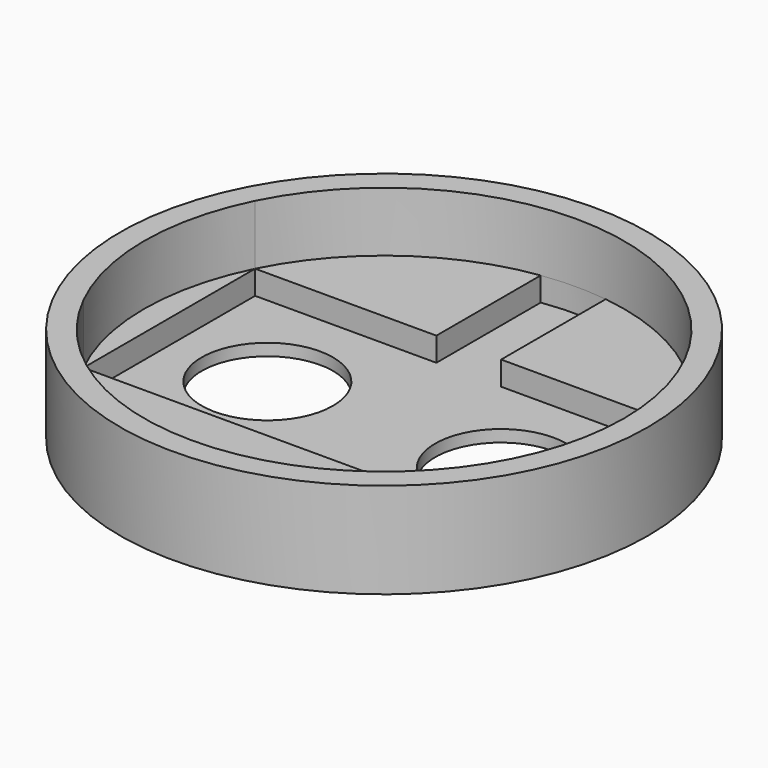
from build123d import *

# Parameters (mm, degrees)
F0_R     = 70.1167257922
F1_DEPTH = 25.4
F2_DEPTH = 9.525
F0_W     = 114.0985068913
F0_H     = 56.9764161581
F0_R_2   = 17.4384026712
F3_DEPTH = 3.175
F5_DEPTH = 6.35


with BuildPart() as f1:
    # F0 (on Top) → F1 (new body)
    with BuildSketch(Plane.XY):
        Circle(F0_R)
        with BuildLine():
            ThreePointArc((57.0492534457, 28.4882080791), (62.0646413805, 14.6347397849), (63.7667257922, 0))
            ThreePointArc((63.7667257922, 0), (62.0646413805, -14.6347397849), (57.0492534457, -28.4882080791))
            ThreePointArc((57.0492534457, -28.4882080791), (0, -63.7667257922), (-57.0492534457, -28.4882080791))
            ThreePointArc((-57.0492534457, -28.4882080791), (-63.7667257922, 0), (-57.0492534457, 28.4882080791))
            ThreePointArc((-57.0492534457, 28.4882080791), (0, 63.7667257922), (57.0492534457, 28.4882080791))
        make_face(mode=Mode.SUBTRACT)
    extrude(amount=F1_DEPTH)

    # F0 (on Top) → F2 (join)
    with BuildSketch(Plane.XY):
        with BuildLine():
            Line((-57.0492534457, 28.4882080791), (57.0492534457, 28.4882080791))
            ThreePointArc((57.0492534457, 28.4882080791), (0, 63.7667257922), (-57.0492534457, 28.4882080791))
        make_face()
        with BuildLine():
            Line((-57.0492534457, -28.4882080791), (-57.0492534457, 28.4882080791))
            ThreePointArc((-57.0492534457, 28.4882080791), (-63.7667257922, 0), (-57.0492534457, -28.4882080791))
        make_face()
        with BuildLine():
            ThreePointArc((-57.0492534457, -28.4882080791), (0, -63.7667257922), (57.0492534457, -28.4882080791))
            Line((57.0492534457, -28.4882080791), (-57.0492534457, -28.4882080791))
        make_face()
        with BuildLine():
            ThreePointArc((57.0492534457, -28.4882080791), (62.0646413805, -14.6347397849), (63.7667257922, 0))
            ThreePointArc((63.7667257922, 0), (62.0646413805, 14.6347397849), (57.0492534457, 28.4882080791))
            Line((57.0492534457, 28.4882080791), (57.0492534457, -28.4882080791))
        make_face()
    extrude(amount=F2_DEPTH)

    # F0 (on Top) → F3 (join)
    with BuildSketch(Plane.XY):
        Rectangle(F0_W, F0_H)
        with Locations((-31.0109015554, 0)):
            Circle(F0_R_2, mode=Mode.SUBTRACT)
        with Locations((31.0109015554, 0)):
            Circle(F0_R_2, mode=Mode.SUBTRACT)
    extrude(amount=F3_DEPTH)

    # F4 (on face) → F5 (cut)
    with BuildSketch(Plane.XY.offset(9.525)):
        with BuildLine():
            Line((-8.9004095644, 63.1425215512), (-8.9004095644, 28.4882080791))
            Line((-8.9004095644, 28.4882080791), (8.2985507539, 28.4882080791))
            Line((8.2985507539, 28.4882080791), (8.2985507539, 63.224436523))
            ThreePointArc((8.2985507539, 63.224436523), (-0.3037038403, 63.7660025581), (-8.9004095644, 63.1425215512))
        make_face()
    extrude(amount=-F5_DEPTH, mode=Mode.SUBTRACT)


solid = f1.part
